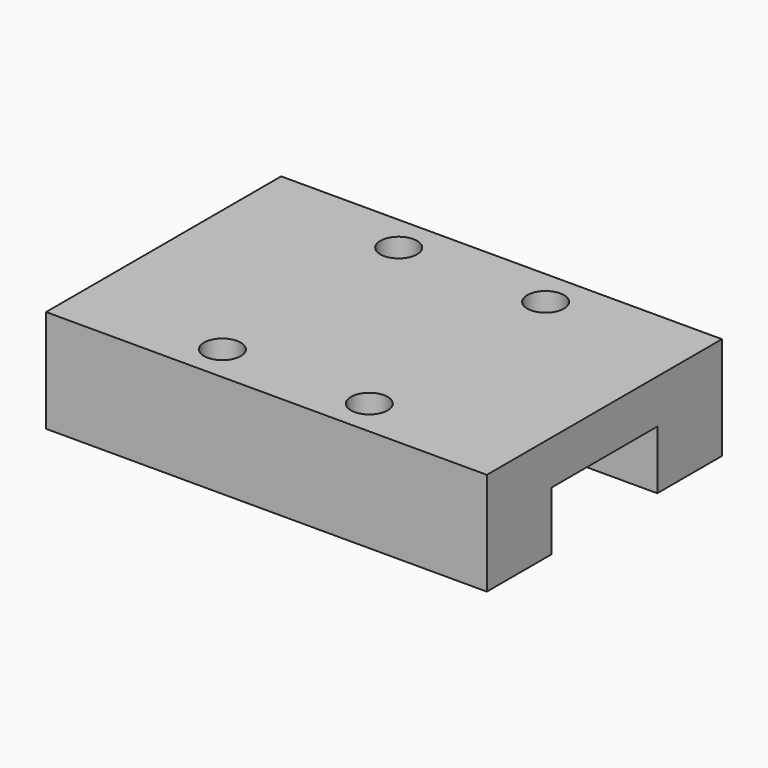
from build123d import *

# Parameters (mm, degrees)
F0_W     = 30
F0_H     = 20
F1_DEPTH = 7
F2_R     = 1.25
F3_DEPTH = 4
F4_W     = 30
F4_H     = 9
F5_DEPTH = 4


with BuildPart() as f1:
    # F0 (on Top) → F1 (new body)
    with BuildSketch(Plane.XY):
        Rectangle(F0_W, F0_H)
    extrude(amount=F1_DEPTH)

    # F2 (on face) → F3 (cut)
    with BuildSketch(Plane.XY.offset(7)):
        with Locations((5, 7.5)):
            Circle(F2_R)
        with Locations((-5, 7.5)):
            Circle(F2_R)
        with Locations((-5, -7.5)):
            Circle(F2_R)
        with Locations((5, -7.5)):
            Circle(F2_R)
    extrude(amount=-F3_DEPTH, mode=Mode.SUBTRACT)

    # F4 (on face) → F5 (cut)
    with BuildSketch(Plane(origin=(0, 0, 0), x_dir=(1, 0, 0), z_dir=(0, 0, -1))):
        Rectangle(F4_W, F4_H)
    extrude(amount=-F5_DEPTH, mode=Mode.SUBTRACT)


solid = f1.part
